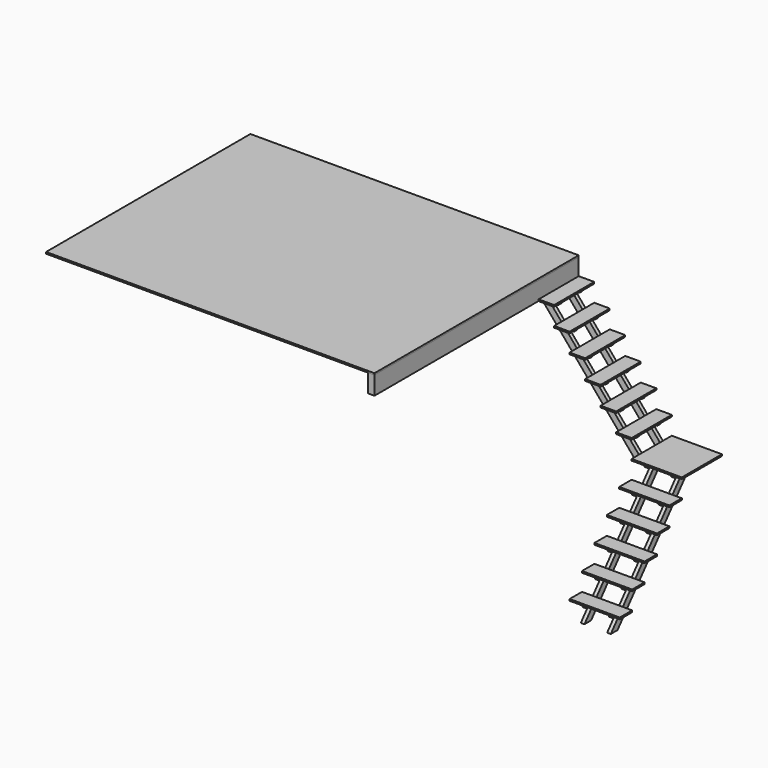
from build123d import *

# Parameters (mm, degrees)
F3_W      = 71
F3_H      = 200
F4_DEPTH  = 2800
F6_W      = 3600
F6_H      = 18
F7_DEPTH  = 2800
F5_W      = 550
F5_H      = 18
F8_DEPTH  = 550
F9_DEPTH  = 40
F11_W     = 170
F11_H     = 18
F12_DEPTH = 550
F14_W     = 170
F14_H     = 18
F15_DEPTH = 550
F17_DEPTH = 40
F19_DEPTH = 40
F22_DEPTH = 40
F23_W     = 40
F23_H     = 120
F23_R     = 4
F24_DEPTH = 3
F27_DEPTH = 40
F29_DEPTH = 40
F31_DEPTH = 40
F30_W     = 70.5
F30_H     = 40
F32_W     = 40
F32_H     = 70
F32_R     = 4
F33_DEPTH = 3
F35_DEPTH = 40
F34_W     = 70.5
F34_H     = 40
F36_W     = 40
F36_H     = 25
F37_DEPTH = 249
F38_W     = 25
F38_H     = 40
F39_DEPTH = 249
F40_W     = 25
F40_H     = 40
F41_DEPTH = 249


with BuildPart() as f4:
    # F3 (on Front) → F4 (new body)
    with BuildSketch(Plane.XZ):
        with Locations((-35.5, 2500)):
            Rectangle(F3_W, F3_H)
    extrude(amount=F4_DEPTH)


with BuildPart() as f7:
    # F6 (on Front) → F7 (new body)
    with BuildSketch(Plane.XZ):
        with Locations((-1800, 2609)):
            Rectangle(F6_W, F6_H)
    extrude(amount=F7_DEPTH)


with BuildPart() as f8:
    # F5 (on Front) → F8 (new body)
    with BuildSketch(Plane.XZ):
        with Locations((1295, 1199.307695)):
            Rectangle(F5_W, F5_H)
    extrude(amount=F8_DEPTH)


with BuildPart() as f9:
    # F2 (on offset) → F9 (new body)
    with BuildSketch(Plane.XZ.offset(110.5)):
        Polygon((1020, 1190.307695), (0, 2400), (-71, 2400), (-71, 2375.6130743251), (987.4604709969, 1120.307695), (1130.5, 1120.307695), (1130.5, 1190.307695), align=None)
    extrude(amount=F9_DEPTH)


with BuildPart() as f12:
    # F11 (on Front) → F12 (new body)
    with BuildSketch(Plane.XZ):
        with Locations((85, 2407.615385)):
            Rectangle(F11_W, F11_H)
    extrude(amount=F12_DEPTH)


with BuildPart() as f12b:
    # F11 (on Front) → F12, piece 2 (new body)
    with BuildSketch(Plane.XZ):
        with Locations((255, 2206.23077)):
            Rectangle(F11_W, F11_H)
    extrude(amount=F12_DEPTH)


with BuildPart() as f12c:
    # F11 (on Front) → F12, piece 3 (new body)
    with BuildSketch(Plane.XZ):
        with Locations((425, 2004.846155)):
            Rectangle(F11_W, F11_H)
    extrude(amount=F12_DEPTH)


with BuildPart() as f12d:
    # F11 (on Front) → F12, piece 4 (new body)
    with BuildSketch(Plane.XZ):
        with Locations((595, 1803.46154)):
            Rectangle(F11_W, F11_H)
    extrude(amount=F12_DEPTH)


with BuildPart() as f12e:
    # F11 (on Front) → F12, piece 5 (new body)
    with BuildSketch(Plane.XZ):
        with Locations((765, 1602.076925)):
            Rectangle(F11_W, F11_H)
    extrude(amount=F12_DEPTH)


with BuildPart() as f12f:
    # F11 (on Front) → F12, piece 6 (new body)
    with BuildSketch(Plane.XZ):
        with Locations((935, 1400.69231)):
            Rectangle(F11_W, F11_H)
    extrude(amount=F12_DEPTH)


with BuildPart() as f15:
    # F14 (on face) → F15 (new body)
    with BuildSketch(Plane.YZ.offset(1570)):
        with Locations((-635, 997.9230791667)):
            Rectangle(F14_W, F14_H)
    extrude(amount=-F15_DEPTH)


with BuildPart() as f15b:
    # F14 (on face) → F15, piece 2 (new body)
    with BuildSketch(Plane.YZ.offset(1570)):
        with Locations((-805, 796.5384633333)):
            Rectangle(F14_W, F14_H)
    extrude(amount=-F15_DEPTH)


with BuildPart() as f15c:
    # F14 (on face) → F15, piece 3 (new body)
    with BuildSketch(Plane.YZ.offset(1570)):
        with Locations((-975, 595.1538475)):
            Rectangle(F14_W, F14_H)
    extrude(amount=-F15_DEPTH)


with BuildPart() as f15d:
    # F14 (on face) → F15, piece 4 (new body)
    with BuildSketch(Plane.YZ.offset(1570)):
        with Locations((-1145, 393.7692316667)):
            Rectangle(F14_W, F14_H)
    extrude(amount=-F15_DEPTH)


with BuildPart() as f15e:
    # F14 (on face) → F15, piece 5 (new body)
    with BuildSketch(Plane.YZ.offset(1570)):
        with Locations((-1315, 192.3846158333)):
            Rectangle(F14_W, F14_H)
    extrude(amount=-F15_DEPTH)


with BuildPart() as f17:
    # F16 (on offset) → F17 (new body)
    with BuildSketch(Plane.YZ.offset(1130.5)):
        Polygon((0, 1120.307695), (0, 1190.307695), (-439.5, 1190.307695), (-439.5, 1120.307695), (-439.0909089592, 1120.307695), (-1384.8051948391, 0), (-1293.198778461, 0), (-347.4844925812, 1120.307695), align=None)
    extrude(amount=F17_DEPTH)


with BuildPart() as f19:
    # F18 (on offset) → F19 (new body)
    with BuildSketch(Plane.XZ.offset(110.5)):
        Polygon((130, 2400), (0, 2400), (33.7275849663, 2360), (130, 2360), align=None)
    extrude(amount=F19_DEPTH)


with BuildPart() as f19b:
    # F18 (on offset) → F19, piece 2 (new body)
    with BuildSketch(Plane.XZ.offset(110.5)):
        Polygon((300.9729108345, 2197.23077), (170, 2197.23077), (204.7004958009, 2157.23077), (300.9729108345, 2157.23077), align=None)
    extrude(amount=F19_DEPTH)


with BuildPart() as f19c:
    # F18 (on offset) → F19, piece 3 (new body)
    with BuildSketch(Plane.XZ.offset(110.5)):
        Polygon((470.7783286676, 1995.846155), (340, 1995.846155), (374.505913634, 1955.846155), (470.7783286676, 1955.846155), align=None)
    extrude(amount=F19_DEPTH)


with BuildPart() as f19d:
    # F18 (on offset) → F19, piece 4 (new body)
    with BuildSketch(Plane.XZ.offset(110.5)):
        Polygon((640.5837465007, 1794.46154), (510, 1794.46154), (544.3113314671, 1754.46154), (640.5837465007, 1754.46154), align=None)
    extrude(amount=F19_DEPTH)


with BuildPart() as f19e:
    # F18 (on offset) → F19, piece 5 (new body)
    with BuildSketch(Plane.XZ.offset(110.5)):
        Polygon((810.3891643338, 1593.076925), (680, 1593.076925), (714.1167493001, 1553.076925), (810.3891643338, 1553.076925), align=None)
    extrude(amount=F19_DEPTH)


with BuildPart() as f19f:
    # F18 (on offset) → F19, piece 6 (new body)
    with BuildSketch(Plane.XZ.offset(110.5)):
        Polygon((980.1945821669, 1391.69231), (850, 1391.69231), (883.9221671332, 1351.69231), (980.1945821669, 1351.69231), align=None)
    extrude(amount=F19_DEPTH)


with BuildPart() as f22:
    # F21 (on offset) → F22 (new body)
    with BuildSketch(Plane.XZ.offset(439.5)):
        Polygon((1020, 1190.307695), (0, 2400), (-71, 2400), (-71, 2375.6130743251), (987.4604709969, 1120.307695), (1130.5, 1120.307695), (1130.5, 1190.307695), align=None)
    extrude(amount=-F22_DEPTH)


with BuildPart() as f24:
    # F23 (on face) → F24 (new body)
    with BuildSketch(Plane(origin=(-71, 0, 0), x_dir=(0, -1, 0), z_dir=(-1, 0, 0))):
        with Locations((130.5, 2435.6130743251)):
            Rectangle(F23_W, F23_H)
        with Locations((130.5, 2425.6130743251)):
            Circle(F23_R, mode=Mode.SUBTRACT)
        with Locations((130.5, 2470.6130743251)):
            Circle(F23_R, mode=Mode.SUBTRACT)
    extrude(amount=F24_DEPTH)


with BuildPart() as f24b:
    # F23 (on face) → F24, piece 2 (new body)
    with BuildSketch(Plane(origin=(-71, 0, 0), x_dir=(0, -1, 0), z_dir=(-1, 0, 0))):
        with Locations((419.5, 2435.6130743251)):
            Rectangle(F23_W, F23_H)
        with Locations((419.5, 2425.6130743251)):
            Circle(F23_R, mode=Mode.SUBTRACT)
        with Locations((419.5, 2470.6130743251)):
            Circle(F23_R, mode=Mode.SUBTRACT)
    extrude(amount=F24_DEPTH)


with BuildPart() as f27:
    # F26 (on offset) → F27 (new body)
    with BuildSketch(Plane.YZ.offset(1459.5)):
        Polygon((0, 1120.307695), (0, 1190.307695), (-439.5, 1190.307695), (-439.5, 1120.307695), (-439.0909089592, 1120.307695), (-1384.8051948391, 0), (-1293.198778461, 0), (-347.4844925812, 1120.307695), align=None)
    extrude(amount=-F27_DEPTH)


with BuildPart() as f29:
    # F28 (on face) → F29 (new body)
    with BuildSketch(Plane.XZ.offset(439.5)):
        Polygon((130, 2400), (0, 2400), (33.7275849663, 2360), (130, 2360), align=None)
    extrude(amount=-F29_DEPTH)


with BuildPart() as f29b:
    # F28 (on face) → F29, piece 2 (new body)
    with BuildSketch(Plane.XZ.offset(439.5)):
        Polygon((300.9729108345, 2197.23077), (170.9729108345, 2197.23077), (204.7004958009, 2157.23077), (300.9729108345, 2157.23077), align=None)
    extrude(amount=-F29_DEPTH)


with BuildPart() as f29c:
    # F28 (on face) → F29, piece 3 (new body)
    with BuildSketch(Plane.XZ.offset(439.5)):
        Polygon((470.7783286676, 1995.846155), (340.7783286676, 1995.846155), (374.505913634, 1955.846155), (470.7783286676, 1955.846155), align=None)
    extrude(amount=-F29_DEPTH)


with BuildPart() as f29d:
    # F28 (on face) → F29, piece 4 (new body)
    with BuildSketch(Plane.XZ.offset(439.5)):
        Polygon((640.5837465007, 1794.46154), (510.5837465007, 1794.46154), (544.3113314671, 1754.46154), (640.5837465007, 1754.46154), align=None)
    extrude(amount=-F29_DEPTH)


with BuildPart() as f29e:
    # F28 (on face) → F29, piece 5 (new body)
    with BuildSketch(Plane.XZ.offset(439.5)):
        Polygon((810.3891643338, 1593.076925), (680.3891643338, 1593.076925), (714.1167493001, 1553.076925), (810.3891643338, 1553.076925), align=None)
    extrude(amount=-F29_DEPTH)


with BuildPart() as f29f:
    # F28 (on face) → F29, piece 6 (new body)
    with BuildSketch(Plane.XZ.offset(439.5)):
        Polygon((980.1945821669, 1391.69231), (850.1945821669, 1391.69231), (883.9221671332, 1351.69231), (980.1945821669, 1351.69231), align=None)
    extrude(amount=-F29_DEPTH)


with BuildPart() as f31:
    # F30 (on face) → F31 (new body)
    with BuildSketch(Plane.YZ.offset(1170.5)):
        Polygon((-550, 988.9230791667), (-680, 988.9230791667), (-680, 948.9230791667), (-583.766233691, 948.9230791667), align=None)
    extrude(amount=-F31_DEPTH)


with BuildPart() as f31b:
    # F30 (on face) → F31, piece 2 (new body)
    with BuildSketch(Plane.YZ.offset(1170.5)):
        with Locations((-474.75, 1170.307695)):
            Rectangle(F30_W, F30_H)
    extrude(amount=-F31_DEPTH)


with BuildPart() as f31c:
    # F30 (on face) → F31, piece 3 (new body)
    with BuildSketch(Plane.YZ.offset(1170.5)):
        Polygon((-720, 787.5384633333), (-850, 787.5384633333), (-850, 747.5384633333), (-753.766233691, 747.5384633333), align=None)
    extrude(amount=-F31_DEPTH)


with BuildPart() as f31d:
    # F30 (on face) → F31, piece 4 (new body)
    with BuildSketch(Plane.YZ.offset(1170.5)):
        Polygon((-1060, 384.7692316667), (-1190, 384.7692316667), (-1190, 344.7692316667), (-1093.766233691, 344.7692316667), align=None)
    extrude(amount=-F31_DEPTH)


with BuildPart() as f31e:
    # F30 (on face) → F31, piece 5 (new body)
    with BuildSketch(Plane.YZ.offset(1170.5)):
        Polygon((-890, 586.1538475), (-1020, 586.1538475), (-1020, 546.1538475), (-923.766233691, 546.1538475), align=None)
    extrude(amount=-F31_DEPTH)


with BuildPart() as f31f:
    # F30 (on face) → F31, piece 6 (new body)
    with BuildSketch(Plane.YZ.offset(1170.5)):
        Polygon((-1230, 183.3846158333), (-1360, 183.3846158333), (-1360, 143.3846158333), (-1263.766233691, 143.3846158333), align=None)
    extrude(amount=-F31_DEPTH)


with BuildPart() as f33:
    # F32 (on face) → F33 (new body)
    with BuildSketch(Plane(origin=(0, 0, 0), x_dir=(-1, 0, 0), z_dir=(0, 1, 0))):
        with Locations((-1190.5, 1155.307695)):
            Rectangle(F32_W, F32_H)
        with Locations((-1190.5, 1140.307695)):
            Circle(F32_R, mode=Mode.SUBTRACT)
        with Locations((-1190.5, 1170.307695)):
            Circle(F32_R, mode=Mode.SUBTRACT)
    extrude(amount=-F33_DEPTH)


with BuildPart() as f33b:
    # F32 (on face) → F33, piece 2 (new body)
    with BuildSketch(Plane(origin=(0, 0, 0), x_dir=(-1, 0, 0), z_dir=(0, 1, 0))):
        with Locations((-1399.5, 1155.307695)):
            Rectangle(F32_W, F32_H)
        with Locations((-1399.5, 1140.307695)):
            Circle(F32_R, mode=Mode.SUBTRACT)
        with Locations((-1399.5, 1170.307695)):
            Circle(F32_R, mode=Mode.SUBTRACT)
    extrude(amount=-F33_DEPTH)


with BuildPart() as f35:
    # F34 (on face) → F35 (new body)
    with BuildSketch(Plane.YZ.offset(1459.5)):
        Polygon((-550, 988.9230791667), (-680, 988.9230791667), (-680, 948.9230791667), (-583.766233691, 948.9230791667), align=None)
    extrude(amount=-F35_DEPTH)


with BuildPart() as f35b:
    # F34 (on face) → F35, piece 2 (new body)
    with BuildSketch(Plane.YZ.offset(1459.5)):
        with Locations((-474.75, 1170.307695)):
            Rectangle(F34_W, F34_H)
    extrude(amount=-F35_DEPTH)


with BuildPart() as f35c:
    # F34 (on face) → F35, piece 3 (new body)
    with BuildSketch(Plane.YZ.offset(1459.5)):
        Polygon((-720, 787.5384633333), (-850, 787.5384633333), (-850, 747.5384633333), (-753.766233691, 747.5384633333), align=None)
    extrude(amount=-F35_DEPTH)


with BuildPart() as f35d:
    # F34 (on face) → F35, piece 4 (new body)
    with BuildSketch(Plane.YZ.offset(1459.5)):
        Polygon((-1060, 384.7692316667), (-1190, 384.7692316667), (-1190, 344.7692316667), (-1093.766233691, 344.7692316667), align=None)
    extrude(amount=-F35_DEPTH)


with BuildPart() as f35e:
    # F34 (on face) → F35, piece 5 (new body)
    with BuildSketch(Plane.YZ.offset(1459.5)):
        Polygon((-890, 586.1538475), (-1020, 586.1538475), (-1020, 546.1538475), (-923.766233691, 546.1538475), align=None)
    extrude(amount=-F35_DEPTH)


with BuildPart() as f35f:
    # F34 (on face) → F35, piece 6 (new body)
    with BuildSketch(Plane.YZ.offset(1459.5)):
        Polygon((-1230, 183.3846158333), (-1360, 183.3846158333), (-1360, 143.3846158333), (-1263.766233691, 143.3846158333), align=None)
    extrude(amount=-F35_DEPTH)


with BuildPart() as f37:
    # F36 (on face) → F37 (new body, through all)
    with BuildSketch(Plane.XZ.offset(150.5)):
        with Locations((-35.5, 2387.5)):
            Rectangle(F36_W, F36_H)
    extrude(amount=F37_DEPTH)


with BuildPart() as f39:
    # F38 (on face) → F39 (new body, through all)
    with BuildSketch(Plane.YZ.offset(1170.5)):
        with Locations((-12.5, 1170.307695)):
            Rectangle(F38_W, F38_H)
    extrude(amount=F39_DEPTH)


with BuildPart() as f41:
    # F40 (on face) → F41 (new body, through all)
    with BuildSketch(Plane.XZ.offset(150.5)):
        with Locations((1118, 1170.307695)):
            Rectangle(F40_W, F40_H)
    extrude(amount=F41_DEPTH)


solid = Compound([f4.part, f7.part, f8.part, f9.part, f12.part, f12b.part, f12c.part, f12d.part, f12e.part, f12f.part, f15.part, f15b.part, f15c.part, f15d.part, f15e.part, f17.part, f19.part, f19b.part, f19c.part, f19d.part, f19e.part, f19f.part, f22.part, f24.part, f24b.part, f27.part, f29.part, f29b.part, f29c.part, f29d.part, f29e.part, f29f.part, f31.part, f31b.part, f31c.part, f31d.part, f31e.part, f31f.part, f33.part, f33b.part, f35.part, f35b.part, f35c.part, f35d.part, f35e.part, f35f.part, f37.part, f39.part, f41.part])
